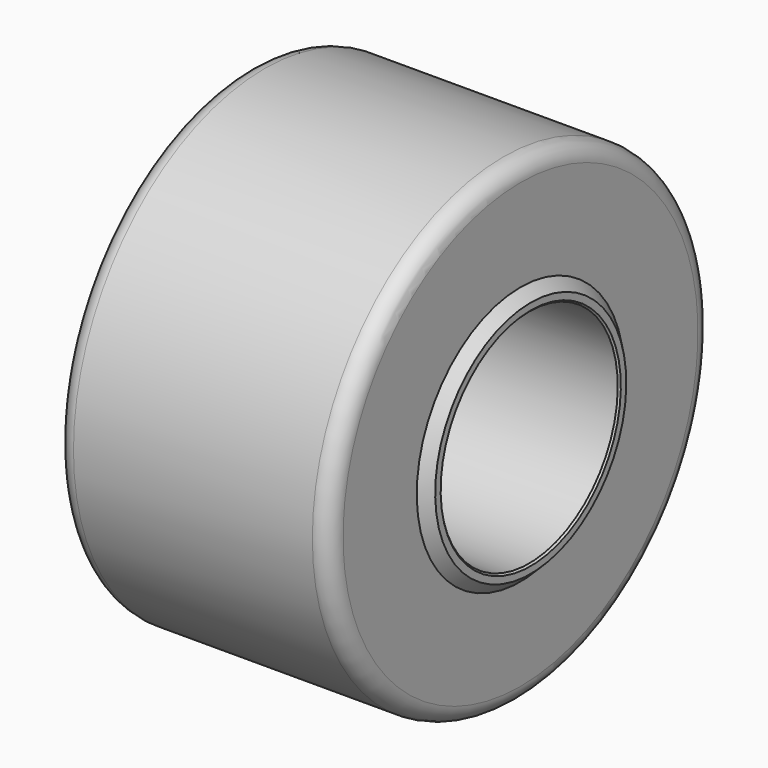
from build123d import *

# Parameters (mm, degrees)
F2_R    = 5
F3_SIZE = 0.5


with BuildPart() as f1:
    # F0 (on Front) → F1 (revolve)
    with BuildSketch(Plane.XZ):
        Polygon((-43, 35), (-43, 32.5), (43, 32.5), (43, 35), (40, 38), (40, 70), (-40, 70), (-40, 38), align=None)
    revolve(axis=Axis((10.727409, 0, 0), (1, 0, 0)))

    # F2
    f2_edges = [f1.edges().sort_by_distance(p)[0] for p in [
        (-40, 0, -70),
        (40, 0, -70),
    ]]
    fillet(f2_edges, radius=F2_R)

    # F3
    f3_edges = [f1.edges().sort_by_distance(p)[0] for p in [
        (-43, 0, -32.5),
        (43, 0, -32.5),
        (0, 0, 32.5),
    ]]
    chamfer(f3_edges, length=F3_SIZE)


solid = f1.part
